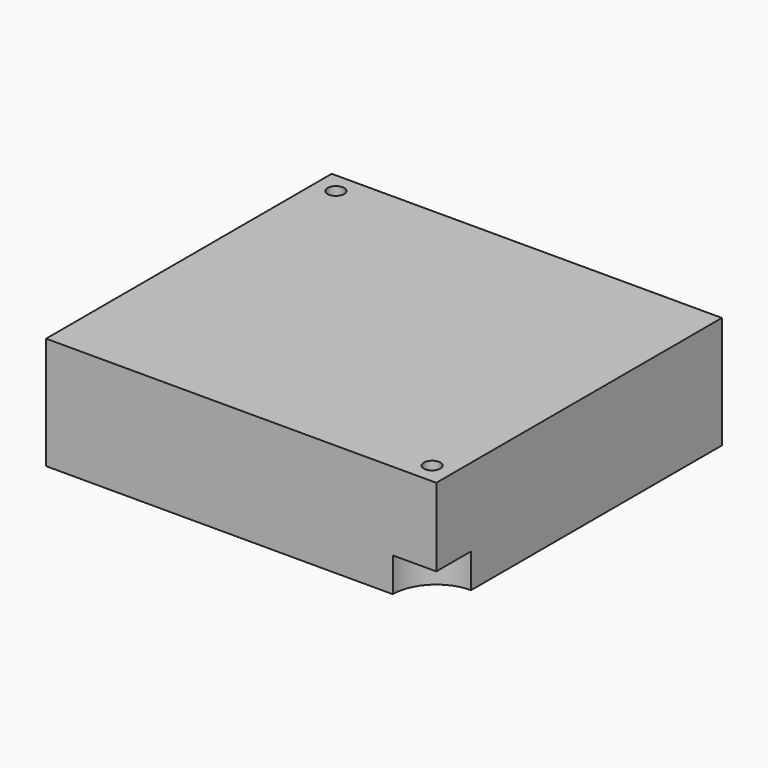
from build123d import *

# Parameters (mm, degrees)
CYLINDER003_W             = 5.25
CYLINDER003_H             = 4.13
CYLINDER003_ANGLE         = 90
CYLINDER002_R             = 1
CYLINDER002_DEPTH         = 13.55
FUSION002_PLACEMENT_ANGLE = 180
CYLINDER001_W             = 5.25
CYLINDER001_H             = 4.13
CYLINDER001_ANGLE         = 90
CYLINDER_R                = 1
CYLINDER_DEPTH            = 13.55
BOX001_W                  = 47.1
BOX001_H                  = 13.55
BOX001_DEPTH              = 43.1
CUT_PLACEMENT_ANGLE       = 90


with BuildPart() as obj1:
    # Cylinder003 → Cylinder003 (revolve)
    with BuildSketch(Plane(origin=(0, 4.13, 0), x_dir=(1, 0, 0), z_dir=(0, 0, -1))):
        with Locations((2.625, 2.065)):
            Rectangle(CYLINDER003_W, CYLINDER003_H)
    revolve(axis=Axis((0, 4.13, 0), (0, -1, 0)), revolution_arc=CYLINDER003_ANGLE)


with BuildPart() as obj2:
    # Cylinder002 → Cylinder002 (new body)
    with BuildSketch(Plane(origin=(2.5, 13.55, 2.5), x_dir=(1, 0, 0), z_dir=(0, -1, 0))):
        Circle(CYLINDER002_R)
    extrude(amount=CYLINDER002_DEPTH)

    # Fusion002: union obj1
    add(obj1.part)


with BuildPart() as obj2_1:
    # Fusion002 placement: moved
    add(obj2.part.moved(Location((47.1, 0, 43.1))).rotate(Axis((47.1, 0, 43.1), (0, 1, 0)), FUSION002_PLACEMENT_ANGLE))


with BuildPart() as obj3:
    # Cylinder001 → Cylinder001 (revolve)
    with BuildSketch(Plane(origin=(0, 4.13, 0), x_dir=(1, 0, 0), z_dir=(0, 0, -1))):
        with Locations((2.625, 2.065)):
            Rectangle(CYLINDER001_W, CYLINDER001_H)
    revolve(axis=Axis((0, 4.13, 0), (0, -1, 0)), revolution_arc=CYLINDER001_ANGLE)


with BuildPart() as fusion003:
    # Cylinder → Cylinder (new body)
    with BuildSketch(Plane(origin=(2.5, 13.55, 2.5), x_dir=(1, 0, 0), z_dir=(0, -1, 0))):
        Circle(CYLINDER_R)
    extrude(amount=CYLINDER_DEPTH)

    # Fusion001: union obj3
    add(obj3.part)

    # Fusion003: union obj2
    add(obj2_1.part)


with BuildPart() as ips7100v:
    # Box001 → Box001 (new body)
    with BuildSketch(Plane.XY):
        with Locations((23.55, 6.775)):
            Rectangle(BOX001_W, BOX001_H)
    extrude(amount=BOX001_DEPTH)

    # Cut: cut Fusion003
    add(fusion003.part, mode=Mode.SUBTRACT)


with BuildPart() as ips7100v_1:
    # Cut placement: moved
    add(ips7100v.part.moved(Location((15.5, 26, -14))).rotate(Axis((15.5, 26, -14), (1, 0, 0)), CUT_PLACEMENT_ANGLE))


solid = ips7100v_1.part
